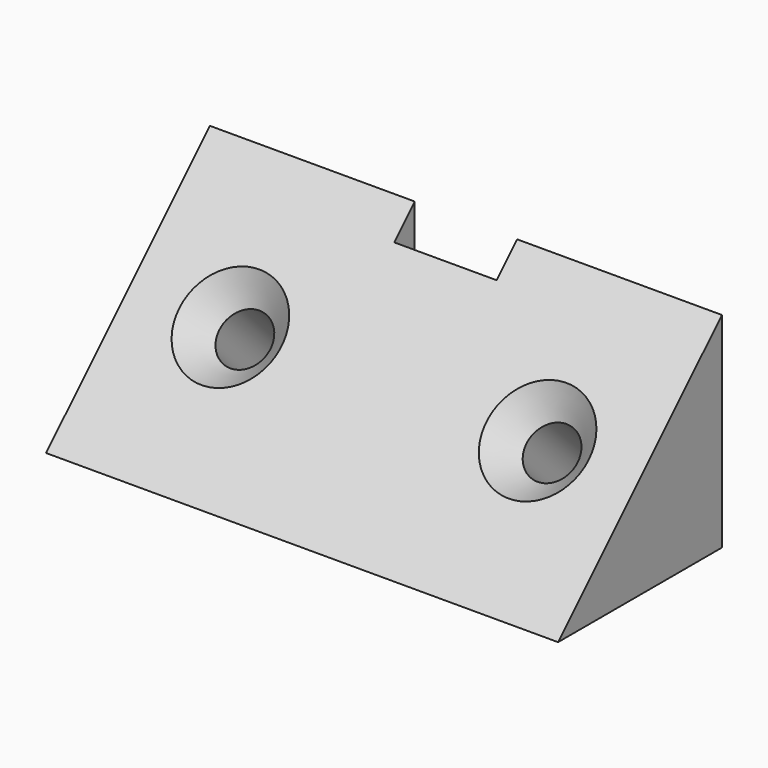
from build123d import *

# Parameters (mm, degrees)
F2_DEPTH       = 20
F4_D           = 4
F4_CSINK_D     = 8
F4_CSINK_ANGLE = 90
F6_W           = 8
F6_H           = 2
F7_DEPTH       = 16.001


with BuildPart() as f2:
    # F1 (on Right) → F2 (new body, symmetric)
    with BuildSketch(Plane.YZ):
        Polygon((-16, 0), (0, 0), (0, 16), align=None)
    extrude(amount=F2_DEPTH, both=True)

    # F4 (through all)
    with Locations(Plane(origin=(0, -8, 8), x_dir=(1, 0, 0), z_dir=(0, -0.7071067812, 0.7071067812))):
        with Locations((-12, 0)):
            CounterSinkHole(F4_D / 2, F4_CSINK_D / 2, counter_sink_angle=F4_CSINK_ANGLE)

    # F5: F2 across plane


with BuildPart() as f2_1:
    add(f2.part)
    add(f2.part.mirror(Plane.YZ), mode=Mode.INTERSECT)

    # F6 (on face) → F7 (cut, through all)
    with BuildSketch(Plane(origin=(0, 0, 0), x_dir=(1, 0, 0), z_dir=(0, 0, -1))):
        with Locations((0, 1)):
            Rectangle(F6_W, F6_H)
    extrude(amount=-F7_DEPTH, mode=Mode.SUBTRACT)


solid = f2_1.part
